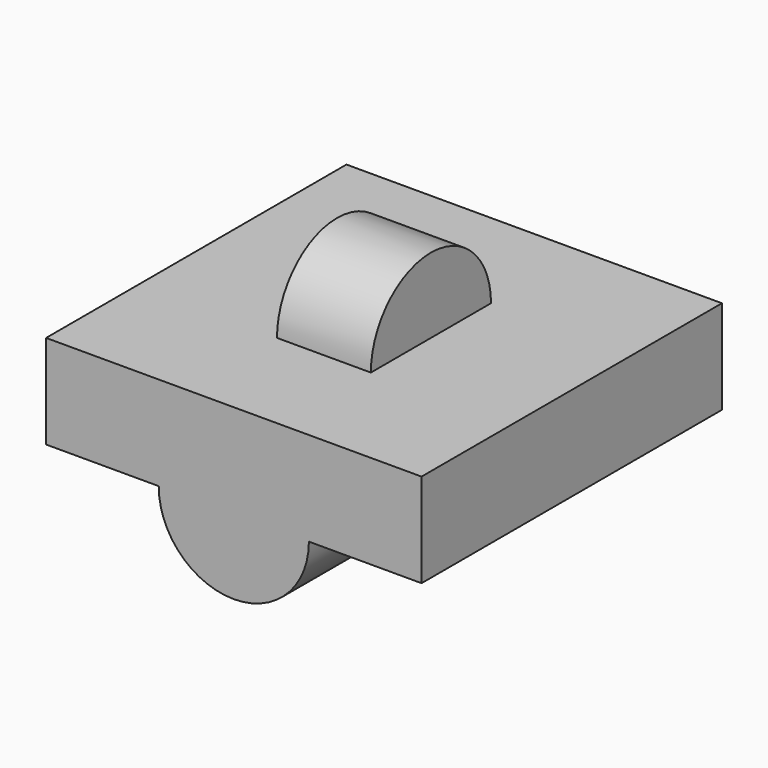
from build123d import *

# Parameters (mm, degrees)
F1_DEPTH = 20
F2_R     = 8
F3_DEPTH = 5


with BuildPart() as f1:
    # F0 (on Front) → F1 (new body, symmetric)
    with BuildSketch(Plane.XZ):
        with BuildLine():
            Line((-8, 0), (8, 0))
            ThreePointArc((8, 0), (0, 8), (-8, 0))
        make_face()
        with BuildLine():
            ThreePointArc((-8, 0), (0, 8), (8, 0))
            Line((8, 0), (20, 0))
            Line((20, 0), (20, 10))
            Line((20, 10), (-20, 10))
            Line((-20, 10), (-20, 0))
            Line((-20, 0), (-8, 0))
        make_face()
        with BuildLine():
            ThreePointArc((-8, 0), (0, -8), (8, 0))
            Line((8, 0), (-8, 0))
        make_face()
    extrude(amount=F1_DEPTH, both=True)

    # F2 (on Right) → F3 (join, symmetric)
    with BuildSketch(Plane.YZ):
        with Locations((0, 10)):
            Circle(F2_R)
    extrude(amount=F3_DEPTH, both=True)


solid = f1.part
